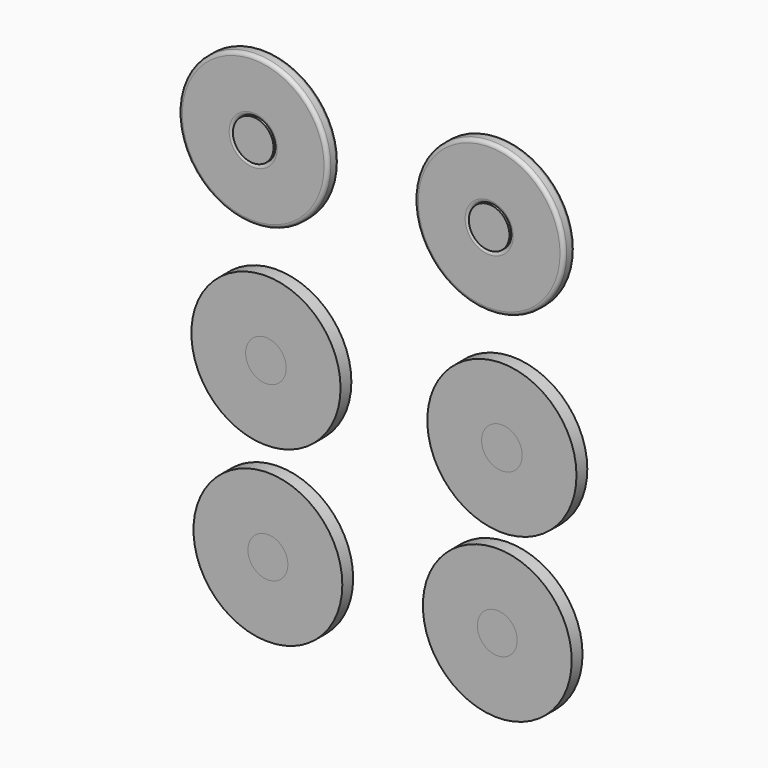
from build123d import *

# Parameters (mm, degrees)
F0_R     = 11.025
F0_R_2   = 3
F1_DEPTH = 2
F2_R     = 0.5
F3_DEPTH = 4
F4_R     = 0.55
F5_DEPTH = 2
F6_DEPTH = 4
F7_R     = 11
F7_R_2   = 2.95
F8_DEPTH = 2
F9_DEPTH = 4


with BuildPart() as f1:
    # F0 (on Front) → F1 (new body)
    with BuildSketch(Plane.XZ):
        with Locations((21.200115, 28.044021)):
            Circle(F0_R)
        with Locations((21.200115, 28.044021)):
            Circle(F0_R_2, mode=Mode.SUBTRACT)
        with Locations((-13.672087, 28.068587)):
            Circle(F0_R)
        with Locations((-13.672087, 28.068587)):
            Circle(F0_R_2, mode=Mode.SUBTRACT)
    extrude(amount=-F1_DEPTH)

    # F2
    f2_edges = [f1.edges().sort_by_distance(p)[0] for p in [
        (10.175115, 2, 28.044021),
        (-24.697087, 2, 28.068587),
    ]]
    fillet(f2_edges, radius=F2_R)

    # F4
    f4_edges = [f1.edges().sort_by_distance(p)[0] for p in [
        (-24.697087, 0, 28.068587),
        (-16.672087, 0, 28.068587),
        (10.175115, 0, 28.044021),
        (18.200115, 0, 28.044021),
    ]]
    fillet(f4_edges, radius=F4_R)


with BuildPart() as f3:
    # F0 (on Front) → F3 (new body)
    with BuildSketch(Plane.XZ):
        with Locations((-13.672087, 28.068587)):
            Circle(F0_R_2)
        with Locations((21.200115, 28.044021)):
            Circle(F0_R_2)
    extrude(amount=-F3_DEPTH)


with BuildPart() as f5:
    # F0 (on Front) → F5 (new body)
    with BuildSketch(Plane.XZ):
        with Locations((-11.787339, 0)):
            Circle(F0_R)
        with Locations((-11.787339, 0)):
            Circle(F0_R_2, mode=Mode.SUBTRACT)
        with Locations((23.084862, -0.024566)):
            Circle(F0_R)
        with Locations((23.084862, -0.024566)):
            Circle(F0_R_2, mode=Mode.SUBTRACT)
    extrude(amount=-F5_DEPTH)


with BuildPart() as f6:
    # F0 (on Front) → F6 (new body)
    with BuildSketch(Plane.XZ):
        with Locations((-11.787339, 0)):
            Circle(F0_R_2)
        with Locations((23.084862, -0.024566)):
            Circle(F0_R_2)
    extrude(amount=-F6_DEPTH)


with BuildPart() as f8:
    # F7 (on Front) → F8 (new body)
    with BuildSketch(Plane.XZ):
        with Locations((-11.499999, -25.496151)):
            Circle(F7_R)
        with Locations((-11.499999, -25.496151)):
            Circle(F7_R_2, mode=Mode.SUBTRACT)
        with Locations((22.403017, -24.342673)):
            Circle(F7_R)
        with Locations((22.403017, -24.342673)):
            Circle(F7_R_2, mode=Mode.SUBTRACT)
    extrude(amount=-F8_DEPTH)


with BuildPart() as f9:
    # F7 (on Front) → F9 (new body)
    with BuildSketch(Plane.XZ):
        with Locations((-11.499999, -25.496151)):
            Circle(F7_R_2)
        with Locations((22.403017, -24.342673)):
            Circle(F7_R_2)
    extrude(amount=-F9_DEPTH)


solid = Compound([f1.part, f3.part, f5.part, f6.part, f8.part, f9.part])
